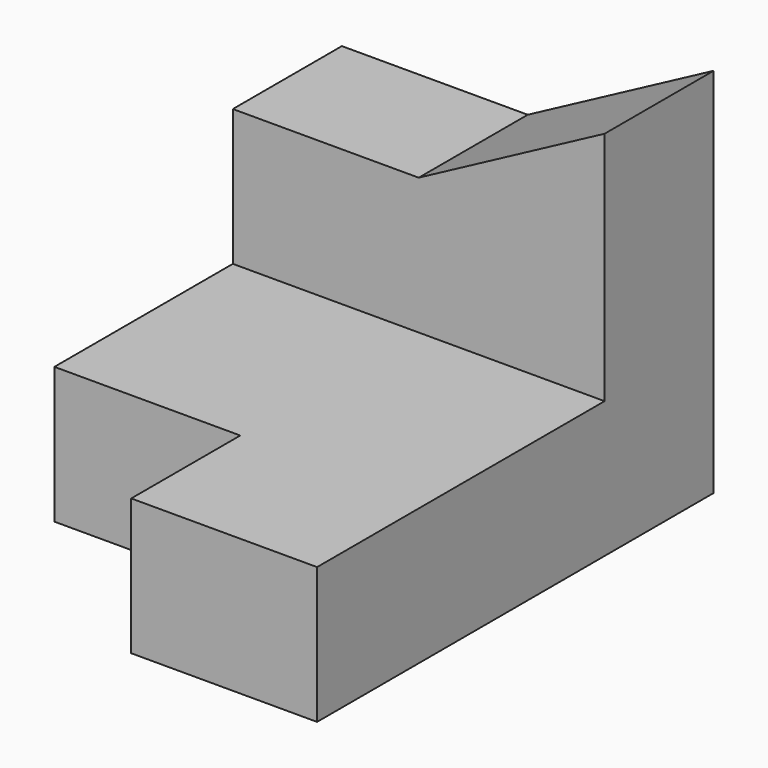
from build123d import *

# Parameters (mm, degrees)
F1_DEPTH = 30
F2_W     = 11
F2_H     = 15
F3_DEPTH = 11
F4_W     = 15
F4_H     = 8
F5_DEPTH = 11
F6_ANGLE = -90
F8_DEPTH = 11.001


with BuildPart() as f1:
    # F0 (on Front) → F1 (new body)
    with BuildSketch(Plane.XZ):
        Polygon((0, 30), (0, 0), (40, 0), (40, 11), (11, 11), (11, 30), align=None)
    extrude(amount=F1_DEPTH)

    # F2 (on face) → F3 (cut, through all)
    with BuildSketch(Plane.XY.offset(11)):
        with Locations((34.5, -22.5)):
            Rectangle(F2_W, F2_H)
    extrude(amount=-F3_DEPTH, mode=Mode.SUBTRACT)

    # F4 (on face) → F5 (cut, through all)
    with BuildSketch(Plane.YZ.offset(11)):
        with Locations((-22.5, 26)):
            Rectangle(F4_W, F4_H)
    extrude(amount=-F5_DEPTH, mode=Mode.SUBTRACT)


with BuildPart() as f1_1:
    # F6: moved
    add(f1.part.rotate(Axis((0, 0, 15), (0, 0, 1)), F6_ANGLE))

    # F7 (on face) → F8 (cut, through all)
    with BuildSketch(Plane.XZ.offset(11)):
        Polygon((-7.5, 26), (-15, 30), (-15, 22), align=None)
        Polygon((0, 30), (-15, 30), (-7.5, 26), align=None)
    extrude(amount=-F8_DEPTH, mode=Mode.SUBTRACT)


solid = f1_1.part
